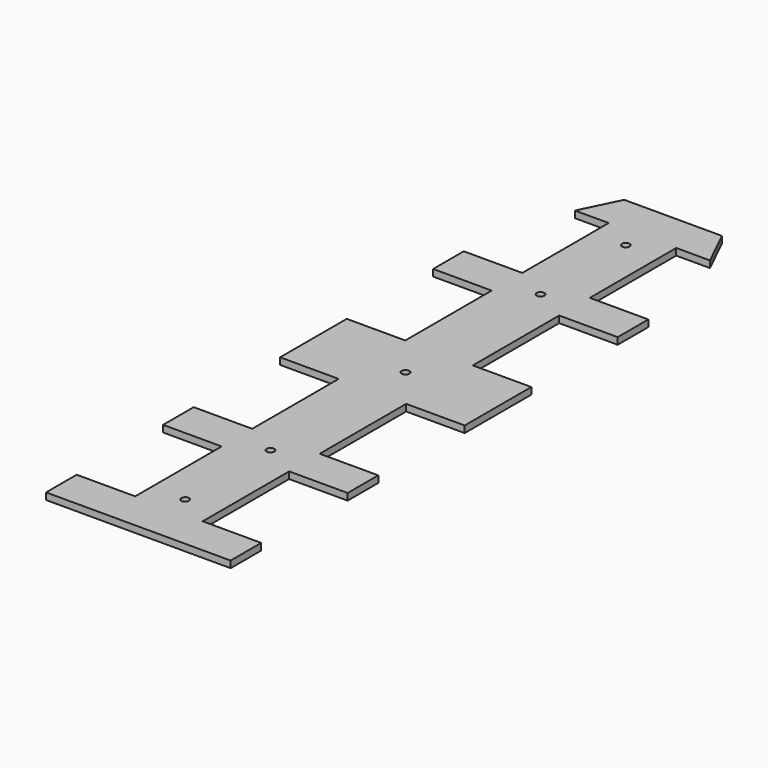
from build123d import *

# Parameters (mm, degrees)
PAD_DEPTH         = 3
SKETCH001_R       = 1.7
POCKET_DEPTH      = 0.001
POCKET_DEPTH_BACK = 3.001


with BuildPart() as part:
    # Sketch → Pad (new body)
    with BuildSketch(Plane.XY):
        Polygon((0, 33), (41, 33), (41, 50), (15, 50), (15, 98), (41, 98), (41, 115), (15, 115), (15, 163), (41, 163), (41, 200), (15, 200), (15, 248), (41, 248), (41, 265), (15, 265), (15, 313), (30, 313), (21.708546, 330), (0, 330), align=None)
    pad = extrude(amount=PAD_DEPTH)

    # Mirrored: Pad across Sketch V_Axis
    add(pad.mirror(Plane(origin=(0, 0, 0), x_dir=(0, 0, 1), z_dir=(1, 0, 0))))

    # Sketch001 → Pocket (cut, two sides)
    with BuildSketch(Plane.XY) as pocket_sk:
        with Locations((0, 59)):
            Circle(SKETCH001_R)
        with Locations((0, 106.3905)):
            Circle(SKETCH001_R)
        with Locations((0, 181.3905)):
            Circle(SKETCH001_R)
        with Locations((0, 256.3905)):
            Circle(SKETCH001_R)
        with Locations((0, 303.7447)):
            Circle(SKETCH001_R)
    extrude(amount=-POCKET_DEPTH, mode=Mode.SUBTRACT)
    extrude(pocket_sk.sketch, amount=POCKET_DEPTH_BACK, mode=Mode.SUBTRACT)


with BuildPart() as part_1:
    # Clone063 placement: moved
    add(part.part.moved(Location((41, -330, 0))))


solid = part_1.part
